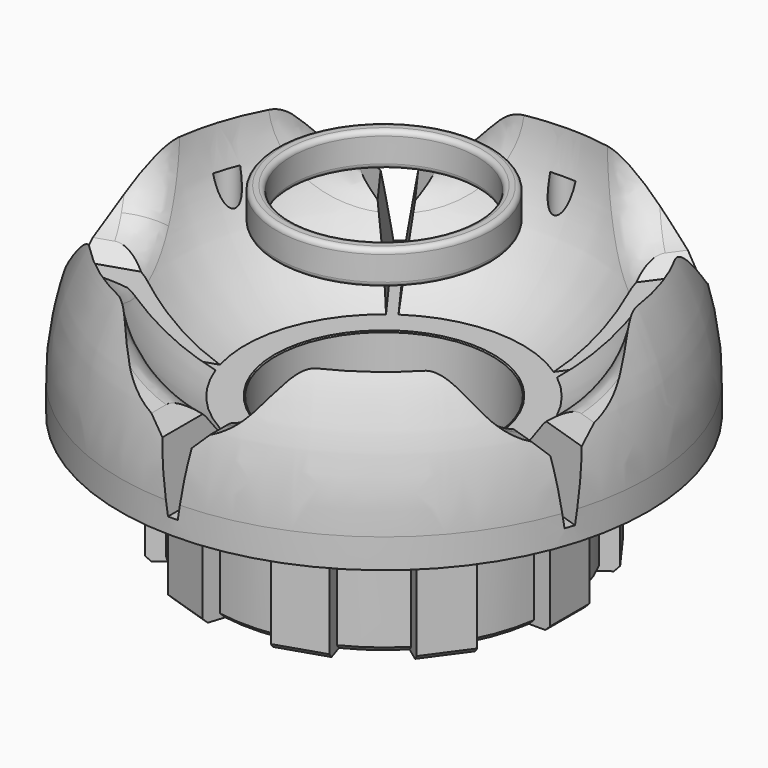
from build123d import *

# Parameters (mm, degrees)
PAD_DEPTH             = 51
ARRAY_COUNT           = 5
FILLET_1_R            = 3
FILLET_2_R            = 1
FILLET001_R           = 4
SKETCH005_R           = 1.3
POCKET_DEPTH          = 188.235541
POLARPATTERN_COUNT    = 5
SKETCH006_W           = 5
SKETCH006_H           = 5
PAD001_DEPTH          = 13
POLARPATTERN001_COUNT = 10
CHAMFER_SIZE          = 0.5
SKETCH007_R           = 11
SKETCH007_R_2         = 9.5
PAD002_DEPTH          = 3.5
FILLET002_R           = 0.5


with BuildPart() as nabe:
    # Sketch002 → Revolution001 (revolve)
    with BuildSketch(Plane.XZ):
        with BuildLine():
            Line((-11.2, -15.5), (-14.2, -15.5))
            ThreePointArc((-14.2, 15.5), (-23.642764, 0), (-14.2, -15.5))
            Line((-14.2, 15.5), (-11.2, 15.5))
            Line((-11.2, 15.5), (-11.2, 8.5))
            Line((-11.2, 8.5), (-9.9, 8.5))
            Line((-9.9, 8.5), (-9.9, 6.5))
            Line((-9.9, 6.5), (-13.9, 2.5))
            Line((-13.9, 2.5), (-13.9, -2.5))
            Line((-13.9, -2.5), (-9.9, -6.5))
            Line((-9.9, -6.5), (-9.9, -8.5))
            Line((-9.9, -8.5), (-11.2, -8.5))
            Line((-11.2, -8.5), (-11.2, -15.5))
        make_face()
    revolve(axis=Axis((0, 0, 0), (0, 0, 1)))


with BuildPart() as obj1:
    # Sketch003 → Pad (new body)
    with BuildSketch(Plane.XZ.offset(14)):
        with BuildLine():
            ThreePointArc((3, -7.416198), (0, 8), (-3, -7.416198))
            Line((-3, -7.416198), (-1.5, -8.916198))
            Line((-0.5, -15.5), (-1.5, -8.916198))
            Line((0.5, -15.5), (-0.5, -15.5))
            Line((1.5, -8.916198), (0.5, -15.5))
            Line((1.5, -8.916198), (3, -7.416198))
        make_face()
    extrude(amount=PAD_DEPTH)

    # Array: obj1 ×5 about axis
    array_axis = Axis((0, 0, 0), (0, 0, 1))


with BuildPart() as obj1_1:
    add(obj1.part)
    for i in range(1, ARRAY_COUNT):
        add(obj1.part.rotate(array_axis, i * 360 / ARRAY_COUNT))


with BuildPart() as f_160mm:
    # Sketch → Revolution (revolve)
    with BuildSketch(Plane.XZ):
        with BuildLine():
            Line((-66, 5.5), (-80, 5.5))
            Line((-80, 5.5), (-80, 15.5))
            Line((-80, 15.5), (-65, 15.5))
            ThreePointArc((-65, -15.5), (-53.713503, 0), (-65, 15.5))
            Line((-65, -15.5), (-80, -15.5))
            Line((-80, -15.5), (-80, -5.5))
            Line((-80, -5.5), (-66, -5.5))
            Line((-66, -5.5), (-66, 5.5))
        make_face()
    revolve(axis=Axis((0, 0, 0), (0, 0, 1)))

    # Fusion: union obj1
    add(obj1_1.part)

    # Fillet 1
    fillet_1_edges = [f_160mm.edges().sort_by_distance(p)[0] for p in [
        (-28.628675, 47.092077, 6.60145),
        (35.94048, 41.77974, 6.60145),
        (50.841113, -21.270778, 6.60145),
        (-4.518944, -54.925804, 6.60145),
        (-53.633974, -12.675236, 6.60145),
    ]]
    fillet(fillet_1_edges, radius=FILLET_1_R)

    # Fillet 2
    fillet_2_edges = [f_160mm.edges().sort_by_distance(p)[0] for p in [
        (80, 0, -15.5),
        (80, 0, -5.5),
        (80, 0, 15.5),
        (80, 0, 5.5),
    ]]
    fillet(fillet_2_edges, radius=FILLET_2_R)

    # Fusion001: union Nabe
    add(nabe.part)

    # Fillet001
    fillet001_edges = [f_160mm.edges().sort_by_distance(p)[0] for p in [
        (-20.111929, -8.420024, 7.796485),
        (-7.810901, -22.224197, 1.729113),
        (22.573153, -1.604413, 5.856779),
        (9.006404, 20.532579, 6.413152),
        (-15.985202, 15.378243, 6.988779),
    ]]
    fillet(fillet001_edges, radius=FILLET001_R)


with BuildPart() as krone:
    # Sketch004 → Revolution002 (revolve)
    with BuildSketch(Plane.YZ):
        with BuildLine():
            Line((11.1, -15.5), (11.1, -27.5))
            ThreePointArc((11.1, -27.5), (11.685786, -28.914214), (13.1, -29.5))
            Line((13.1, -29.5), (17, -29.5))
            Line((17, -29.5), (17.5, -29))
            Line((17.5, -29), (17.5, -17.1))
            Line((17.5, -17.1), (27, -17.1))
            Line((27, -17.1), (27, -14.1))
            ThreePointArc((27, -14.1), (25.987479, -6.775319), (23.025855, 0))
            Line((23.025855, 0), (11.1, -15.5))
        make_face()
    revolve(axis=Axis((0, 0, 0), (0, 0, 1)))

    # Sketch005 → Pocket (cut, through all)
    with BuildSketch(Plane.XY.offset(-5)):
        with Locations((0, 23)):
            Circle(SKETCH005_R)
    pocket = extrude(amount=-POCKET_DEPTH, mode=Mode.SUBTRACT)

    # PolarPattern: Pocket ×5 about axis
    polarpattern_axis = Axis((0, 0, -5), (0, 0, 1))
    for i in range(1, POLARPATTERN_COUNT):
        add(pocket.rotate(polarpattern_axis, i * 360 / POLARPATTERN_COUNT), mode=Mode.SUBTRACT)

    # Sketch006 (on Face5 of PolarPattern) → Pad001 (join)
    with BuildSketch(Plane.YX.offset(29.5)):
        with Locations((0, 16.5)):
            Rectangle(SKETCH006_W, SKETCH006_H)
    pad001 = extrude(amount=-PAD001_DEPTH)

    # PolarPattern001: Pad001 ×10 about axis
    polarpattern001_axis = Axis((0, 0, -29.5), (0, 0, -1))
    for i in range(1, POLARPATTERN001_COUNT):
        add(pad001.rotate(polarpattern001_axis, i * 360 / POLARPATTERN001_COUNT))

    # Chamfer
    chamfer_edges = [krone.edges().sort_by_distance(p)[0] for p in [
        (19, 0, -29.5),
        (15.371323, -11.16792, -29.5),
        (5.871323, -18.070074, -29.5),
        (14.570783, -17.84327, -17.1),
        (21.472578, 8.343764, -17.1),
        (-5.871323, -18.070074, -29.5),
        (-12.467339, -19.371512, -17.1),
        (-15.371323, -11.16792, -29.5),
        (-19, 0, -29.5),
        (-22.276022, 5.871017, -17.1),
        (-15.371323, 11.16792, -29.5),
        (-5.871323, 18.070074, -29.5),
        (-1.3, 23, -17.1),
        (5.871323, 18.070074, -29.5),
        (15.371323, 11.16792, -29.5),
    ]]
    chamfer(chamfer_edges, length=CHAMFER_SIZE)

    # Cut: cut 160mm
    add(f_160mm.part, mode=Mode.SUBTRACT)


with BuildPart() as ring22mm:
    # Sketch007 → Pad002 (new body)
    with BuildSketch(Plane.XY):
        Circle(SKETCH007_R)
        Circle(SKETCH007_R_2, mode=Mode.SUBTRACT)
    extrude(amount=PAD002_DEPTH)

    # Fillet002
    fillet002_edges = [ring22mm.edges().sort_by_distance(p)[0] for p in [
        (-11, 0, 0),
        (-9.5, 0, 0),
        (-11, 0, 3.5),
        (-9.5, 0, 3.5),
    ]]
    fillet(fillet002_edges, radius=FILLET002_R)


solid = Compound([krone.part, ring22mm.part])
